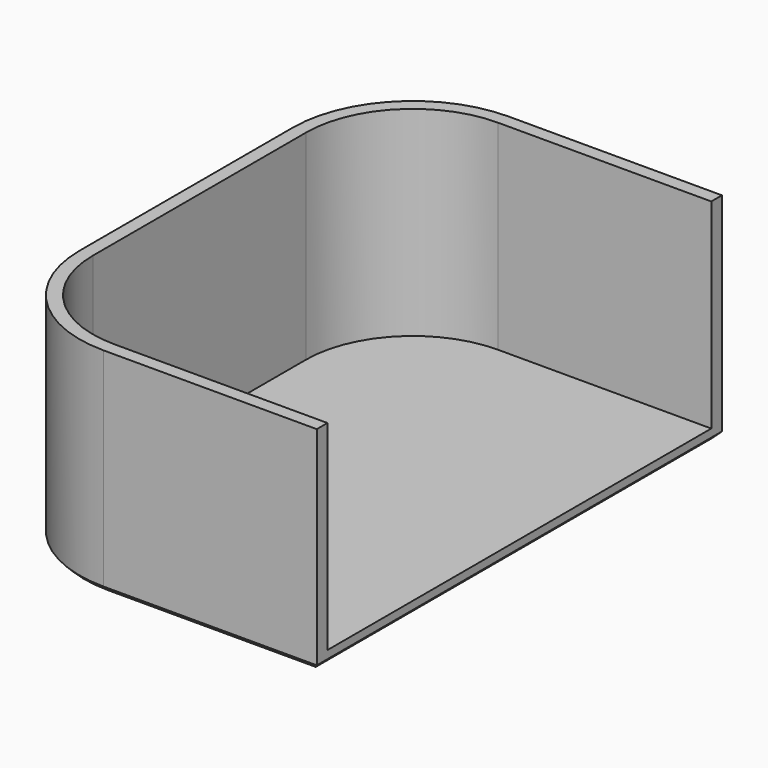
from build123d import *

# Parameters (mm, degrees)
F1_DEPTH = 25.4
F3_DEPTH = 1.5875
F4_SIZE  = 0.635


with BuildPart() as f1:
    # F0 (on Top) → F1 (new body)
    with BuildSketch(Plane.XY):
        with BuildLine():
            Line((38.1, 0), (12.7, 0))
            ThreePointArc((12.7, 0), (3.719744, 3.719744), (0, 12.7))
            Line((0, 12.7), (0, 44.45))
            ThreePointArc((0, 44.45), (3.719744, 53.430256), (12.7, 57.15))
            Line((12.7, 57.15), (38.1, 57.15))
            Line((38.1, 57.15), (38.1, 58.7375))
            Line((38.1, 58.7375), (12.7, 58.7375))
            ThreePointArc((12.7, 58.7375), (2.597212, 54.552788), (-1.5875, 44.45))
            Line((-1.5875, 44.45), (-1.5875, 12.7))
            ThreePointArc((-1.5875, 12.7), (2.597212, 2.597212), (12.7, -1.5875))
            Line((12.7, -1.5875), (38.1, -1.5875))
            Line((38.1, -1.5875), (38.1, 0))
        make_face()
    extrude(amount=F1_DEPTH)

    # F2 (on face) → F3 (join)
    with BuildSketch(Plane(origin=(0, 0, 0), x_dir=(1, 0, 0), z_dir=(0, 0, -1))):
        with BuildLine():
            Line((38.1, 0), (12.7, 0))
            ThreePointArc((12.7, 0), (3.719744, -3.719744), (0, -12.7))
            Line((0, -12.7), (0, -44.45))
            ThreePointArc((0, -44.45), (3.719744, -53.430256), (12.7, -57.15))
            Line((12.7, -57.15), (38.1, -57.15))
            Line((38.1, -57.15), (38.1, 0))
        make_face()
    extrude(amount=-F3_DEPTH)

    # F4
    f4_edges = [f1.edges().sort_by_distance(p)[0] for p in [
        (25.4, -1.5875, 0),
        (38.1, 28.575, 0),
        (25.4, 58.7375, 0),
        (2.597212, 54.552788, 0),
        (-1.5875, 28.575, 0),
        (2.597212, 2.597212, 0),
    ]]
    chamfer(f4_edges, length=F4_SIZE)


solid = f1.part
